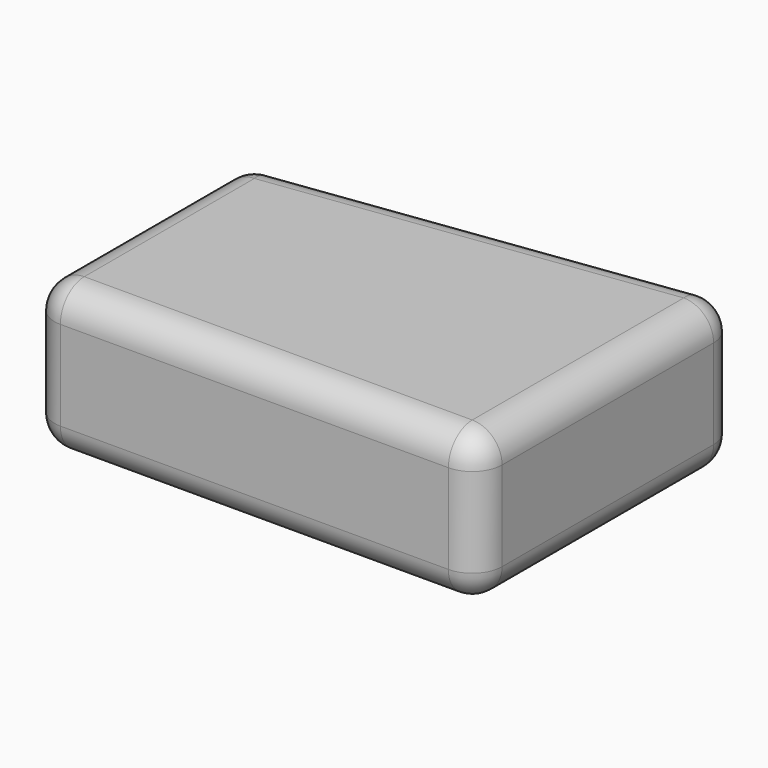
from build123d import *

# Parameters (mm, degrees)
EXTRUDE_DEPTH = 5
FILLET_R      = 1


with BuildPart() as part:
    # Sketch → Extrude (new body)
    with BuildSketch(Plane.XY):
        Polygon((-7.5, 4.5), (-7.5, -4.5), (7.5, -4.5), (7.5, 6.5), align=None)
    extrude(amount=EXTRUDE_DEPTH)

    # Fillet
    fillet_edges = [part.edges().sort_by_distance(p)[0] for p in [
        (-7.5, 4.5, 2.5),
        (-7.5, -4.5, 2.5),
        (-7.5, 0, 0),
        (-7.5, 0, 5),
        (7.5, -4.5, 2.5),
        (0, -4.5, 0),
        (0, -4.5, 5),
        (7.5, 6.5, 2.5),
        (7.5, 1, 0),
        (7.5, 1, 5),
        (0, 5.5, 0),
        (0, 5.5, 5),
    ]]
    fillet(fillet_edges, radius=FILLET_R)


solid = part.part
